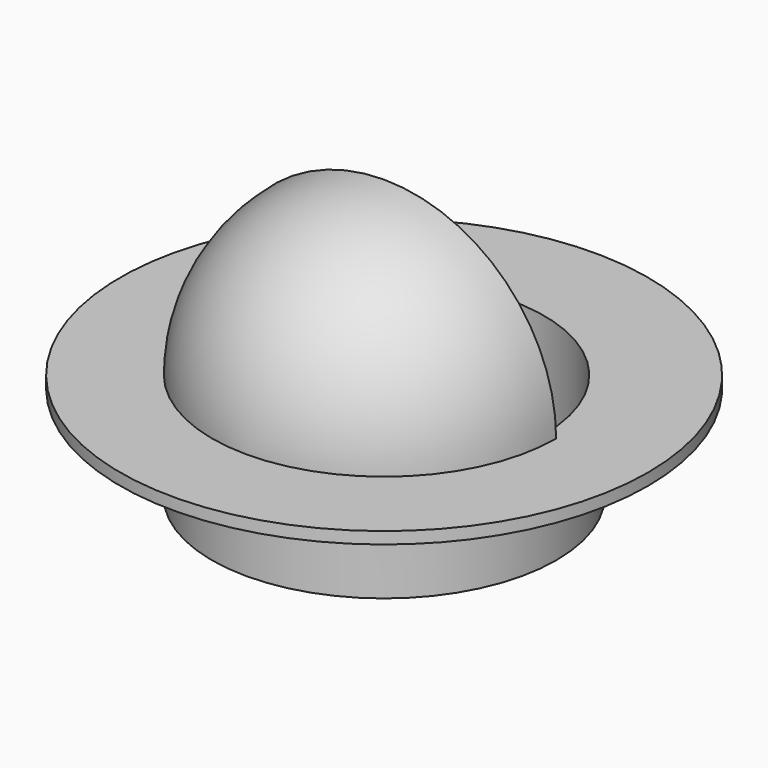
from build123d import *

# Parameters (mm, degrees)
F0_R     = 44.65
F0_R_2   = 29.1
F0_R_3   = 27.1
F1_DEPTH = 2
F4_ANGLE = 180
F5_R     = 29.15
F5_R_2   = 27.1
F6_DEPTH = 16.1


with BuildPart() as f1:
    # F0 (on Top) → F1 (new body)
    with BuildSketch(Plane.XY):
        Circle(F0_R)
        Circle(F0_R_2, mode=Mode.SUBTRACT)
        Circle(F0_R_2)
        Circle(F0_R_3, mode=Mode.SUBTRACT)
    extrude(amount=F1_DEPTH)

    # F2 (on face) → F4 (revolve)
    with BuildSketch(Plane.XY.offset(2)):
        with BuildLine():
            ThreePointArc((0, -27.1), (-19.1625937702, -19.1625937702), (-27.1, 0))
            Line((-27.1, 0), (-29.1, 0))
            ThreePointArc((-29.1, 0), (-20.5768073325, -20.5768073325), (0, -29.1))
            Line((0, -29.1), (0, -27.1))
        make_face()
    revolve(axis=Axis((0, -28.1, 2), (0, 1, 0)), revolution_arc=F4_ANGLE)

    # F5 (on face) → F6 (join)
    with BuildSketch(Plane(origin=(0, 0, 0), x_dir=(1, 0, 0), z_dir=(0, 0, -1))):
        Circle(F5_R)
        Circle(F5_R_2, mode=Mode.SUBTRACT)
    extrude(amount=F6_DEPTH)


solid = f1.part
